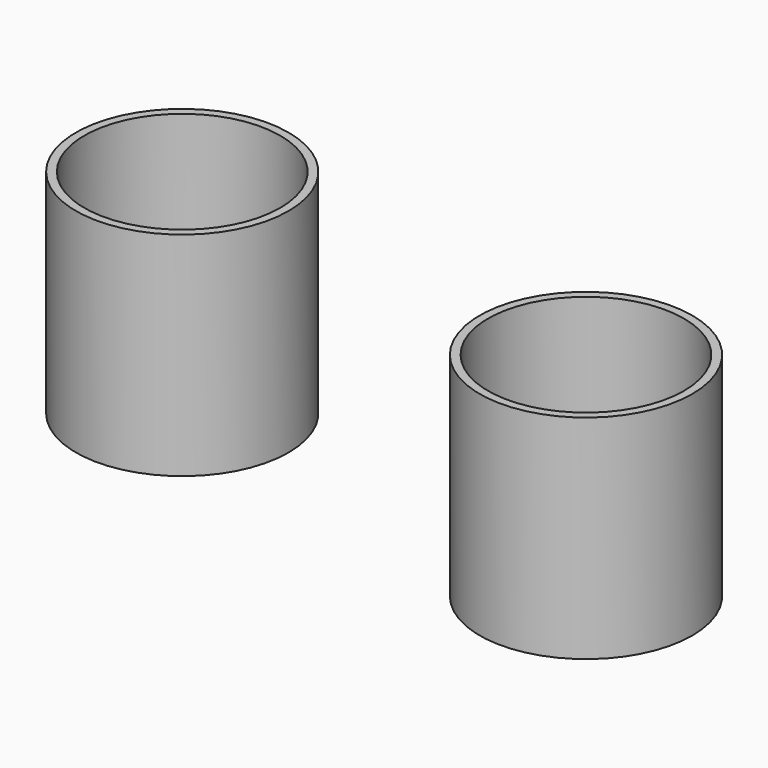
from build123d import *

# Parameters (mm, degrees)
F0_R     = 38.1
F1_DEPTH = 76.2
F2_R     = 38.1
F3_DEPTH = 76.2
F4_T     = -2.9972
F5_T     = -2.9972
F6_R     = 35.1028
F7_DEPTH = 25.4


with BuildPart() as f1:
    # F0 (on Top) → F1 (new body)
    with BuildSketch(Plane.XY):
        Circle(F0_R)
    extrude(amount=F1_DEPTH)

    # F5
    f5_openings = [f1.faces().sort_by_distance(p)[0] for p in [
        (0, 0, 76.2),
    ]]
    offset(amount=F5_T, openings=f5_openings)

    # F6 (on face) → F7 (cut)
    with BuildSketch(Plane.XY.offset(2.9972)):
        Circle(F6_R)
    extrude(amount=-F7_DEPTH, mode=Mode.SUBTRACT)


with BuildPart() as f3:
    # F2 (on Top) → F3 (new body)
    with BuildSketch(Plane.XY):
        with Locations((-157.4817597866, 16.0020012408)):
            Circle(F2_R)
    extrude(amount=F3_DEPTH)

    # F4
    f4_openings = [f3.faces().sort_by_distance(p)[0] for p in [
        (-157.48176, 16.002001, 76.2),
    ]]
    offset(amount=F4_T, openings=f4_openings)


solid = Compound([f1.part, f3.part])
